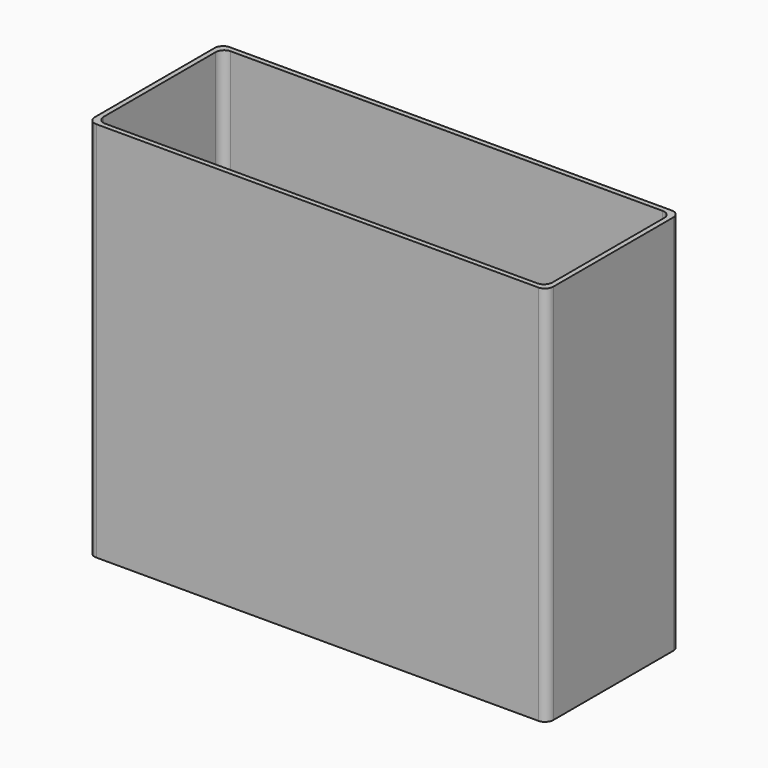
from build123d import *

# Parameters (mm, degrees)
F0_W     = 110
F0_H     = 40
F0_W_2   = 107.6
F0_H_2   = 37.6
F1_DEPTH = 91.5
F2_DEPTH = 1.2
F3_R     = 2
F4_R     = 1


with BuildPart() as f1:
    # F0 (on Top) → F1 (new body)
    with BuildSketch(Plane.XY):
        with Locations((-18.294387, -26.759323)):
            Rectangle(F0_W, F0_H)
        with Locations((-18.294387, -26.759323)):
            Rectangle(F0_W_2, F0_H_2, mode=Mode.SUBTRACT)
    extrude(amount=F1_DEPTH)

    # F0 (on Top) → F2 (join)
    with BuildSketch(Plane.XY):
        with Locations((-18.294387, -26.759323)):
            Rectangle(F0_W, F0_H)
        with Locations((-18.294387, -26.759323)):
            Rectangle(F0_W_2, F0_H_2, mode=Mode.SUBTRACT)
        with Locations((-18.294387, -26.759323)):
            Rectangle(F0_W_2, F0_H_2)
    extrude(amount=F2_DEPTH)

    # F3
    f3_edges = [f1.edges().sort_by_distance(p)[0] for p in [
        (-73.294387, -46.759323, 45.75),
        (36.705613, -46.759323, 45.75),
        (36.705613, -6.759323, 45.75),
        (-73.294387, -6.759323, 45.75),
        (35.505613, -7.959323, 46.35),
        (-72.094387, -7.959323, 46.35),
        (-72.094387, -45.559323, 46.35),
        (35.505613, -45.559323, 46.35),
    ]]
    fillet(f3_edges, radius=F3_R)

    # F4
    f4_edges = [f1.edges().sort_by_distance(p)[0] for p in [
        (-72.094387, -26.759323, 1.2),
    ]]
    fillet(f4_edges, radius=F4_R)


solid = f1.part
